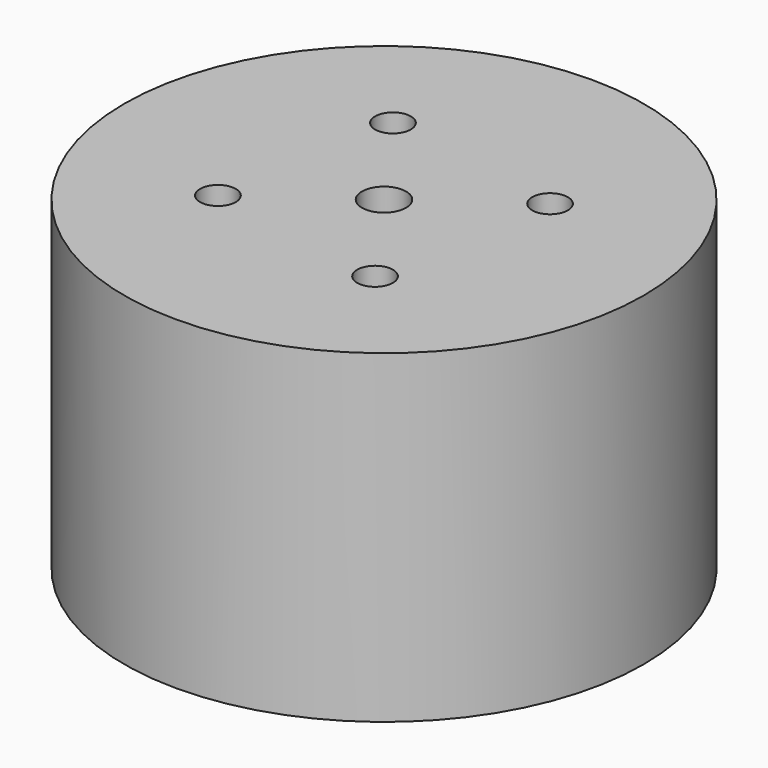
from build123d import *

# Parameters (mm, degrees)
F0_R      = 40
F0_R_2    = 2
F0_R_3    = 3.4
F1_DEPTH  = 50
F3_R      = 2.75
F4_DEPTH  = 10
F5_T      = -2.5
F4_FACE_R = 2.75
F6_DEPTH  = 15


with BuildPart() as f1:
    # F0 (on Top) → F1 (new body)
    with BuildSketch(Plane.XY):
        Circle(F0_R)
        with Locations((-16.2671870079, -11.6352321356)):
            Circle(F0_R_2, mode=Mode.SUBTRACT)
        with Locations((11.6352321356, -16.2671870079)):
            Circle(F0_R_2, mode=Mode.SUBTRACT)
        with Locations((-11.6352321356, 16.2671870079)):
            Circle(F0_R_2, mode=Mode.SUBTRACT)
        Circle(F0_R_3, mode=Mode.SUBTRACT)
        with Locations((16.2671870079, 11.6352321356)):
            Circle(F0_R_2, mode=Mode.SUBTRACT)
    extrude(amount=F1_DEPTH)

    # F5
    f5_openings = [f1.faces().sort_by_distance(p)[0] for p in [
        (-38.868629, 0, 0),
    ]]
    offset(amount=F5_T, openings=f5_openings)


with BuildPart() as f4:
    # F3 (on face) → F4 (new body)
    with BuildSketch(Plane.XY.offset(50)):
        with Locations((-11.6352321356, 16.2671870079)):
            Circle(F3_R)
    extrude(amount=-F4_DEPTH)


with BuildPart() as f4b:
    # F3 (on face) → F4, piece 2 (new body)
    with BuildSketch(Plane.XY.offset(50)):
        with Locations((16.2671870079, 11.6352321356)):
            Circle(F3_R)
    extrude(amount=-F4_DEPTH)


with BuildPart() as f4c:
    # F3 (on face) → F4, piece 3 (new body)
    with BuildSketch(Plane.XY.offset(50)):
        with Locations((11.6352321356, -16.2671870079)):
            Circle(F3_R)
    extrude(amount=-F4_DEPTH)


with BuildPart() as f4d:
    # F3 (on face) → F4, piece 4 (new body)
    with BuildSketch(Plane.XY.offset(50)):
        with Locations((-16.2671870079, -11.6352321356)):
            Circle(F3_R)
    extrude(amount=-F4_DEPTH)


with BuildPart() as f6_tool:
    # F4_face (on face) → F6 (new body)
    with BuildSketch(Plane(origin=(-11.6352321356, 16.2671870079, 50), x_dir=(1, 0, 0), z_dir=(0, 0, 1))):
        Circle(F4_FACE_R)
        with Locations((23.2704642711, -32.5343740159)):
            Circle(F4_FACE_R)
        with Locations((27.9024191435, -4.6319548724)):
            Circle(F4_FACE_R)
        with Locations((-4.6319548724, -27.9024191435)):
            Circle(F4_FACE_R)
    extrude(amount=-F6_DEPTH)


with BuildPart() as f1_1:
    add(f1.part)

    # F6: cut by f6_tool
    add(f6_tool.part, mode=Mode.SUBTRACT)


with BuildPart() as f4_1:
    add(f4.part)

    # F6: cut by f6_tool
    add(f6_tool.part, mode=Mode.SUBTRACT)


with BuildPart() as f4b_1:
    add(f4b.part)

    # F6: cut by f6_tool
    add(f6_tool.part, mode=Mode.SUBTRACT)


with BuildPart() as f4c_1:
    add(f4c.part)

    # F6: cut by f6_tool
    add(f6_tool.part, mode=Mode.SUBTRACT)


with BuildPart() as f4d_1:
    add(f4d.part)

    # F6: cut by f6_tool
    add(f6_tool.part, mode=Mode.SUBTRACT)


solid = f1_1.part
